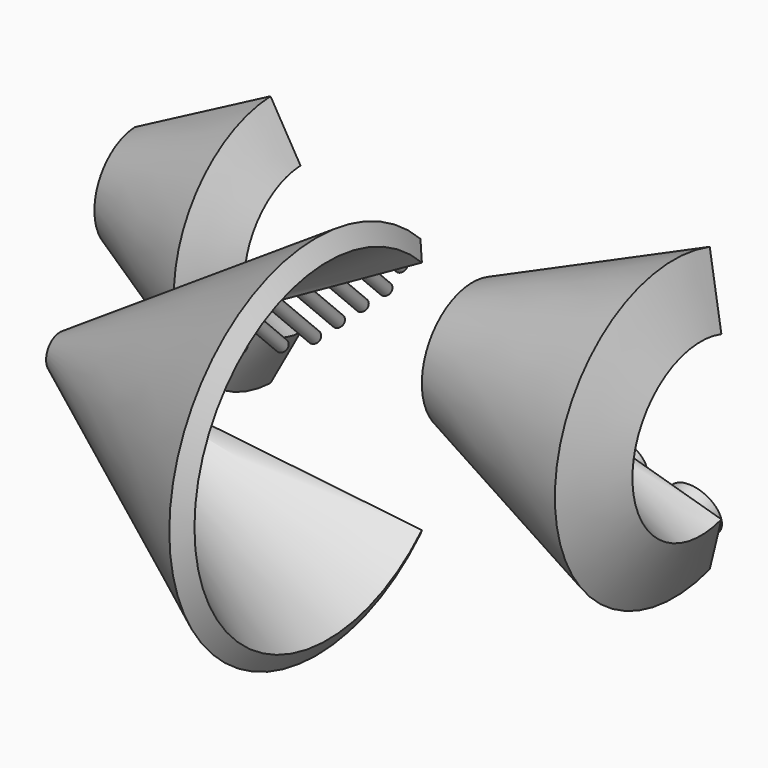
from build123d import *

# Parameters (mm, degrees)
F1_ANGLE_BACK = 87.5
F1_ANGLE      = 175
F2_ANGLE_BACK = 107.5
F2_ANGLE      = 215
F3_ANGLE_BACK = 135
F3_ANGLE      = 270
F4_R          = 37.8787474823
F4_R_2        = 37.1630640443
F4_R_3        = 43.0969146211
F5_DEPTH      = 25.4
F6_R          = 48.4383232115
F6_R_2        = 35.0023630102
F7_DEPTH      = 25.4
F8_R          = 9.7048098961
F9_DEPTH      = 25.4
F10_DEPTH     = 50.8
F11_DEPTH     = 76.2
F12_DEPTH     = 101.6
F13_DEPTH     = 127


with BuildPart() as f1:
    # F0 (on Top) → F1 (revolve)
    with BuildSketch(Plane.XY, mode=Mode.PRIVATE) as f1_sk:
        Polygon((147.204149189, 95.5381169915), (100.793745595, 8.252842685), (328.8043026418, -112.9825210152), (375.2147062358, -25.6972467086), align=None)
    revolve(f1_sk.sketch.rotate(Axis((286.60620749, 95.5381169915, 0), (1, 0, 0)), -F1_ANGLE_BACK), axis=Axis((286.60620749, 95.5381169915, 0), (1, 0, 0)), revolution_arc=F1_ANGLE)


with BuildPart() as f2:
    # F0 (on Top) → F2 (revolve)
    with BuildSketch(Plane.XY, mode=Mode.PRIVATE) as f2_sk:
        Polygon((1108.4781483383, -141.7774565633), (776.1493364803, -0.7122452288), (731.7904973856, -105.2151212553), (1064.1193092436, -246.2803325899), align=None)
    revolve(f2_sk.sketch.rotate(Axis((956.6637632167, -0.7122452288, 0), (1, 0, 0)), -F2_ANGLE_BACK), axis=Axis((956.6637632167, -0.7122452288, 0), (1, 0, 0)), revolution_arc=F2_ANGLE)

    # F4 (on face) → F5 (join)
    with BuildSketch(Plane(origin=(0, -0.647841182, -0.2042635401), x_dir=(-1, 0, 0), z_dir=(0, 0.9537169507, 0.3007057995))):
        with Locations((-817.025244236, -79.1687220335)):
            Circle(F4_R)
        with Locations((-932.5394630432, -125.775411725)):
            Circle(F4_R_2)
        with Locations((-1038.4621620178, -171.0307002068)):
            Circle(F4_R_3)
    extrude(amount=F5_DEPTH)

    # F6 (on face) → F7 (join)
    with BuildSketch(Plane(origin=(0, -0.647841182, 0.2042635401), x_dir=(-1, 0, 0), z_dir=(0, 0.9537169507, -0.3007057995))):
        with Locations((-837.0521198974, 87.303564576)):
            Circle(F6_R)
        with Locations((-920.1343228619, 122.5698674096)):
            Circle(F6_R_2)
        with BuildLine():
            ThreePointArc((-954.7782026149, 157.8361702432), (-962.8244948556, 184.5710723302), (-984.2901651359, 202.4238818525))
            Line((-984.2901651359, 202.4238818525), (-1022.142886517, 113.2484586339))
            ThreePointArc((-1022.142886517, 113.2484586339), (-976.4816237395, 117.4441392725), (-954.7782026149, 157.8361702432))
        make_face()
        with BuildLine():
            Line((-1022.142886517, 113.2484586339), (-984.2901651359, 202.4238818525))
            ThreePointArc((-984.2901651359, 202.4238818525), (-1047.8042374357, 176.7625309338), (-1022.142886517, 113.2484586339))
        make_face()
    extrude(amount=F7_DEPTH)


with BuildPart() as f3:
    # F0 (on Top) → F3 (revolve)
    with BuildSketch(Plane.XY, mode=Mode.PRIVATE) as f3_sk:
        Polygon((735.6117292031, -630.8335806259), (754.2096938025, -602.1952265412), (331.1129097793, -327.4329623391), (312.51494518, -356.0713164238), align=None)
    revolve(f3_sk.sketch.rotate(Axis((583.3554470724, -327.4329623391, 0), (1, 0, 0)), -F3_ANGLE_BACK), axis=Axis((583.3554470724, -327.4329623391, 0), (1, 0, 0)), revolution_arc=F3_ANGLE)

    # F8 (on face) → F9 (join)
    with BuildSketch(Plane(origin=(0, -163.7164811695, 163.7164811695), x_dir=(1, 0, 0), z_dir=(0, 0.7071067812, -0.7071067812))):
        with Locations((709.8791248237, -34.8015947993)):
            Circle(F8_R)
        with Locations((670.6950121215, -9.3551344778)):
            Circle(F8_R)
        with Locations((631.5108994193, 16.0913258436)):
            Circle(F8_R)
        with Locations((592.3267867172, 41.5377861651)):
            Circle(F8_R)
        with Locations((553.142674015, 66.9842464866)):
            Circle(F8_R)
        with Locations((513.9585613128, 92.4307068081)):
            Circle(F8_R)
        with Locations((474.7744486107, 117.8771671296)):
            Circle(F8_R)
        with Locations((435.5903359085, 143.3236274511)):
            Circle(F8_R)
        with Locations((396.4062232063, 168.7700877726)):
            Circle(F8_R)
        with Locations((357.2221105042, 194.2165480941)):
            Circle(F8_R)
    extrude(amount=F9_DEPTH)

    # F10 (add): faces of the model
    f10_faces = [f3.faces().sort_by_distance(p)[0] for p in [
        (670.6950121215, -139.1408898992, 152.3710479556),
        (396.4062232063, -265.0944424529, 26.4174954019),
    ]]
    extrude(f10_faces, amount=F10_DEPTH)

    # F11 (add): faces of the model
    f11_faces = [f3.faces().sort_by_distance(p)[0] for p in [
        (435.5903359085, -247.1010778023, 44.4108600525),
        (631.5108994193, -157.1342545497, 134.3776833051),
    ]]
    extrude(f11_faces, amount=F11_DEPTH)

    # F12 (add): faces of the model
    f12_faces = [f3.faces().sort_by_distance(p)[0] for p in [
        (592.3267867172, -175.1276192002, 116.3843186545),
        (474.7744486107, -229.1077131518, 62.404224703),
    ]]
    extrude(f12_faces, amount=F12_DEPTH)

    # F13 (add): faces of the model
    f13_faces = [f3.faces().sort_by_distance(p)[0] for p in [
        (513.9585613128, -211.1143485013, 80.3975893535),
        (553.142674015, -193.1209838508, 98.390954004),
    ]]
    extrude(f13_faces, amount=F13_DEPTH)


solid = Compound([f1.part, f2.part, f3.part])
